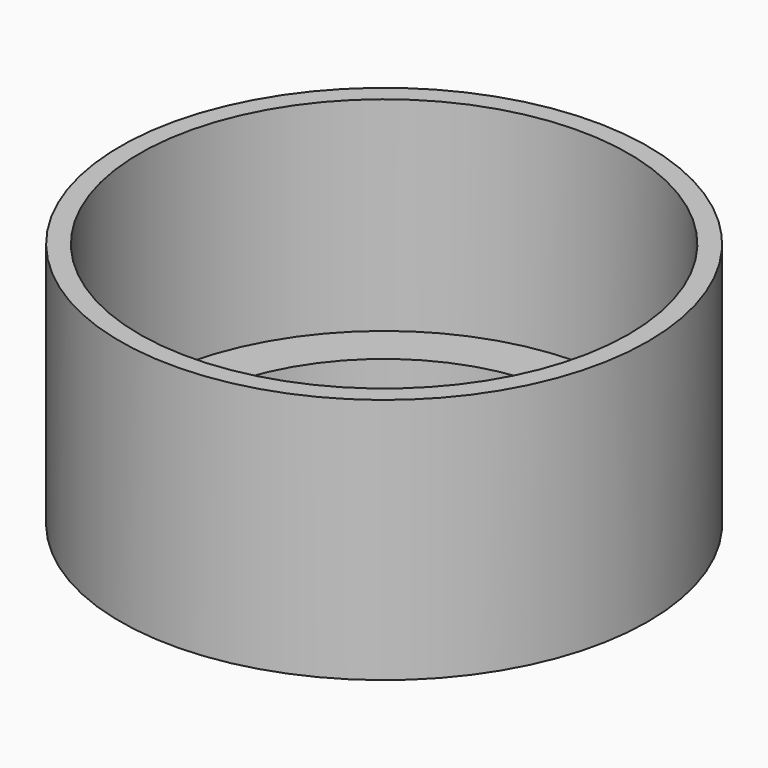
from build123d import *


with BuildPart() as part:
    # Sketch → Revolution (revolve)
    with BuildSketch(Plane.XZ):
        Polygon((16, 0), (16, 2), (18.6, 2), (18.2, 0), (19.8, 0), (19.8, 18.5), (18.35, 18.5), (18.35, 3.2), (14.8, 3.2), (14.8, 0), align=None)
    revolve(axis=Axis((0, 0, 0), (0, 0, 1)))


solid = part.part
